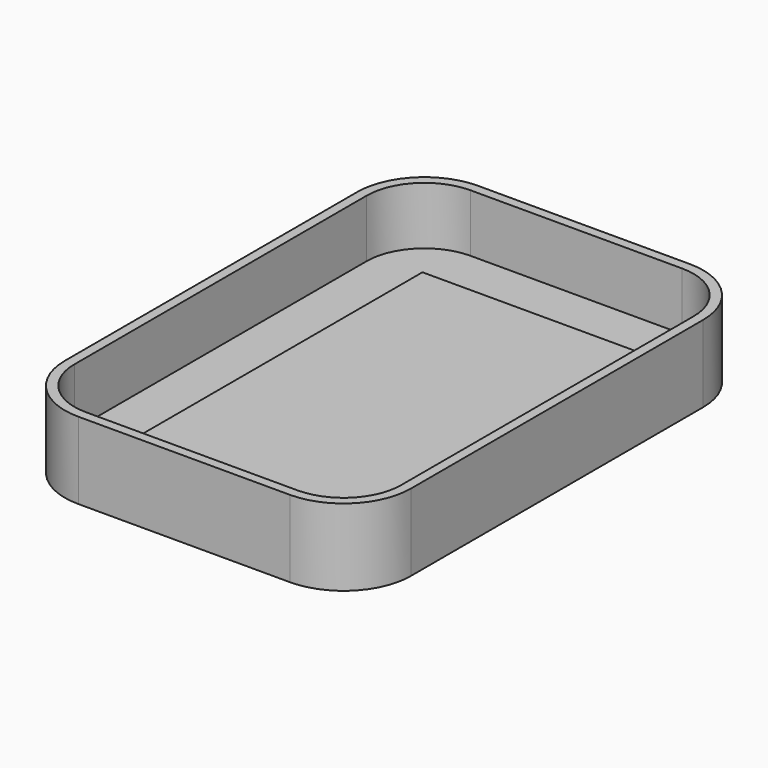
from build123d import *

# Parameters (mm, degrees)
F1_DEPTH = 20
F2_DEPTH = 5
F3_W     = 60
F3_H     = 100
F4_DEPTH = 0.5


with BuildPart() as f1:
    # F0 (on Top) → F1 (new body)
    with BuildSketch(Plane.XY):
        with BuildLine():
            Line((45, -47.5), (45, 47.5))
            ThreePointArc((45, 47.5), (39.874369, 59.874369), (27.5, 65))
            Line((27.5, 65), (-27.5, 65))
            ThreePointArc((-27.5, 65), (-39.874369, 59.874369), (-45, 47.5))
            Line((-45, 47.5), (-45, -47.5))
            ThreePointArc((-45, -47.5), (-39.874369, -59.874369), (-27.5, -65))
            Line((-27.5, -65), (27.5, -65))
            ThreePointArc((27.5, -65), (39.874369, -59.874369), (45, -47.5))
        make_face()
        with BuildLine():
            Line((-27.5, 62.5), (27.5, 62.5))
            ThreePointArc((27.5, 62.5), (38.106602, 58.106602), (42.5, 47.5))
            Line((42.5, 47.5), (42.5, -47.5))
            ThreePointArc((42.5, -47.5), (38.106602, -58.106602), (27.5, -62.5))
            Line((27.5, -62.5), (-27.5, -62.5))
            ThreePointArc((-27.5, -62.5), (-38.106602, -58.106602), (-42.5, -47.5))
            Line((-42.5, -47.5), (-42.5, 47.5))
            ThreePointArc((-42.5, 47.5), (-38.106602, 58.106602), (-27.5, 62.5))
        make_face(mode=Mode.SUBTRACT)
    extrude(amount=F1_DEPTH)

    # F0 (on Top) → F2 (join)
    with BuildSketch(Plane.XY):
        with BuildLine():
            ThreePointArc((42.5, 47.5), (38.106602, 58.106602), (27.5, 62.5))
            Line((27.5, 62.5), (-27.5, 62.5))
            ThreePointArc((-27.5, 62.5), (-38.106602, 58.106602), (-42.5, 47.5))
            Line((-42.5, 47.5), (-42.5, -47.5))
            ThreePointArc((-42.5, -47.5), (-38.106602, -58.106602), (-27.5, -62.5))
            Line((-27.5, -62.5), (27.5, -62.5))
            ThreePointArc((27.5, -62.5), (38.106602, -58.106602), (42.5, -47.5))
            Line((42.5, -47.5), (42.5, 47.5))
        make_face()
        with BuildLine():
            Line((-20, 47.5), (20, 47.5))
            ThreePointArc((20, 47.5), (25.303301, 45.303301), (27.5, 40))
            Line((27.5, 40), (27.5, -40))
            ThreePointArc((27.5, -40), (25.303301, -45.303301), (20, -47.5))
            Line((20, -47.5), (-20, -47.5))
            ThreePointArc((-20, -47.5), (-25.303301, -45.303301), (-27.5, -40))
            Line((-27.5, -40), (-27.5, 40))
            ThreePointArc((-27.5, 40), (-25.303301, 45.303301), (-20, 47.5))
        make_face(mode=Mode.SUBTRACT)
        with BuildLine():
            ThreePointArc((27.5, 40), (25.303301, 45.303301), (20, 47.5))
            Line((20, 47.5), (-20, 47.5))
            ThreePointArc((-20, 47.5), (-25.303301, 45.303301), (-27.5, 40))
            Line((-27.5, 40), (-27.5, -40))
            ThreePointArc((-27.5, -40), (-25.303301, -45.303301), (-20, -47.5))
            Line((-20, -47.5), (20, -47.5))
            ThreePointArc((20, -47.5), (25.303301, -45.303301), (27.5, -40))
            Line((27.5, -40), (27.5, 40))
        make_face()
        with BuildLine():
            ThreePointArc((20, 45), (23.535534, 43.535534), (25, 40))
            Line((25, 40), (25, -40))
            ThreePointArc((25, -40), (23.535534, -43.535534), (20, -45))
            Line((20, -45), (-20, -45))
            ThreePointArc((-20, -45), (-23.535534, -43.535534), (-25, -40))
            Line((-25, -40), (-25, 40))
            ThreePointArc((-25, 40), (-23.535534, 43.535534), (-20, 45))
            Line((-20, 45), (20, 45))
        make_face(mode=Mode.SUBTRACT)
    extrude(amount=F2_DEPTH)

    # F3 (on face) → F4 (join)
    with BuildSketch(Plane.XY.offset(5)):
        Rectangle(F3_W, F3_H)
    extrude(amount=F4_DEPTH)


solid = f1.part
